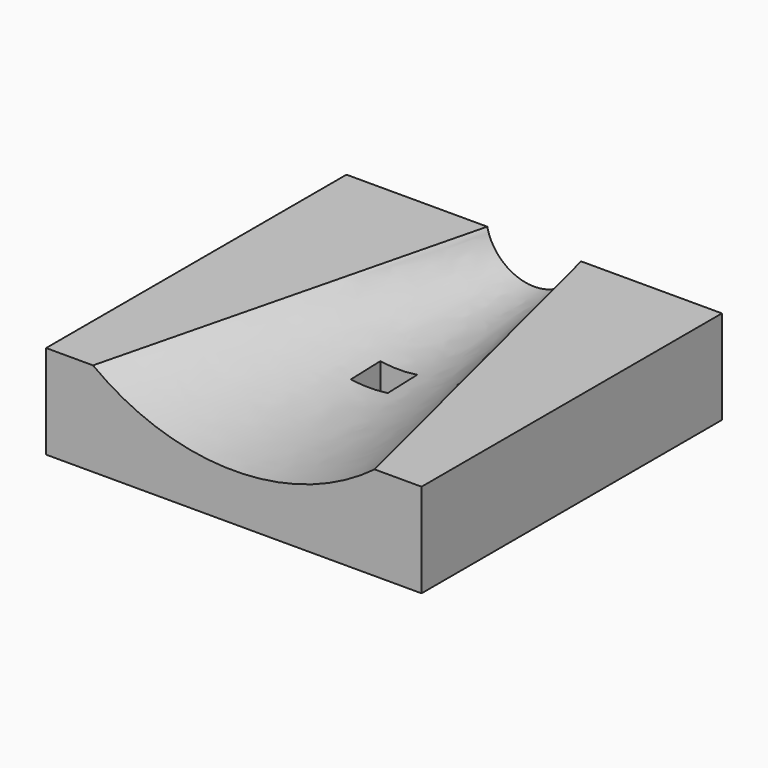
from build123d import *

# Parameters (mm, degrees)
F0_W     = 101.6
F0_H     = 25.4
F1_DEPTH = 101.6
F5_W     = 10
F5_H     = 10
F6_DEPTH = 25.401


with BuildPart() as f1:
    # F0 (on Front) → F1 (new body)
    with BuildSketch(Plane.XZ):
        with Locations((50.8, 12.7)):
            Rectangle(F0_W, F0_H)
    extrude(amount=-F1_DEPTH)

    # F2 (on face) → F4 section 0
    with BuildSketch(Plane.XZ):
        with BuildLine():
            Line((88.9, 25.4), (12.7, 25.4))
            ThreePointArc((12.7, 25.4), (50.8, 12.7), (88.9, 25.4))
        make_face()
    # F3 (on face) → F4 section 1
    with BuildSketch(Plane(origin=(0, 101.6, 0), x_dir=(-1, 0, 0), z_dir=(0, 1, 0))):
        with BuildLine():
            Line((-38.1, 25.4), (-63.5, 25.4))
            ThreePointArc((-63.5, 25.4), (-50.8, 15.24), (-38.1, 25.4))
        make_face()
    loft(mode=Mode.SUBTRACT)

    # F5 (on face) → F6 (cut, through all)
    with BuildSketch(Plane(origin=(0, 0, 0), x_dir=(1, 0, 0), z_dir=(0, 0, -1))):
        with Locations((50.8, -50.8)):
            Rectangle(F5_W, F5_H)
    extrude(amount=-F6_DEPTH, mode=Mode.SUBTRACT)


solid = f1.part
